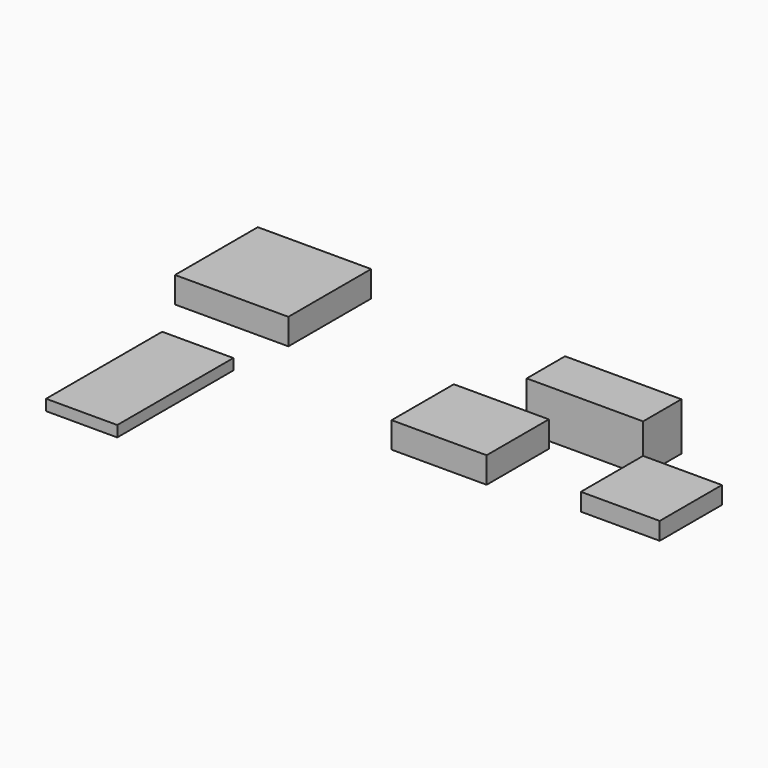
from build123d import *

# Parameters (mm, degrees)
F0_W     = 107.95
F0_H     = 44.45
F1_DEPTH = 44.45
F2_W     = 73.152
F2_H     = 72.136
F3_DEPTH = 16.256
F4_W     = 88.138
F4_H     = 72.136
F5_DEPTH = 24.13
F6_W     = 105.156
F6_H     = 96.012
F7_DEPTH = 24.13
F8_W     = 66.04
F8_H     = 134.62
F9_DEPTH = 10.16


with BuildPart() as f1:
    # F0 (on Top) → F1 (new body)
    with BuildSketch(Plane.XY):
        with Locations((-53.975, 22.225)):
            Rectangle(F0_W, F0_H)
    extrude(amount=F1_DEPTH)


with BuildPart() as f3:
    # F2 (on Top) → F3 (new body)
    with BuildSketch(Plane.XY):
        with Locations((36.576, -36.068)):
            Rectangle(F2_W, F2_H)
    extrude(amount=F3_DEPTH)


with BuildPart() as f5:
    # F4 (on Top) → F5 (new body)
    with BuildSketch(Plane.XY):
        with Locations((-123.758521, -45.752846)):
            Rectangle(F4_W, F4_H)
    extrude(amount=F5_DEPTH)


with BuildPart() as f7:
    # F6 (on Top) → F7 (new body)
    with BuildSketch(Plane.XY):
        with Locations((-380.085857, 46.037666)):
            Rectangle(F6_W, F6_H)
    extrude(amount=F7_DEPTH)


with BuildPart() as f9:
    # F8 (on Top) → F9 (new body)
    with BuildSketch(Plane.XY):
        with Locations((-368.037514, -123.680122)):
            Rectangle(F8_W, F8_H)
    extrude(amount=F9_DEPTH)


solid = Compound([f1.part, f3.part, f5.part, f7.part, f9.part])
